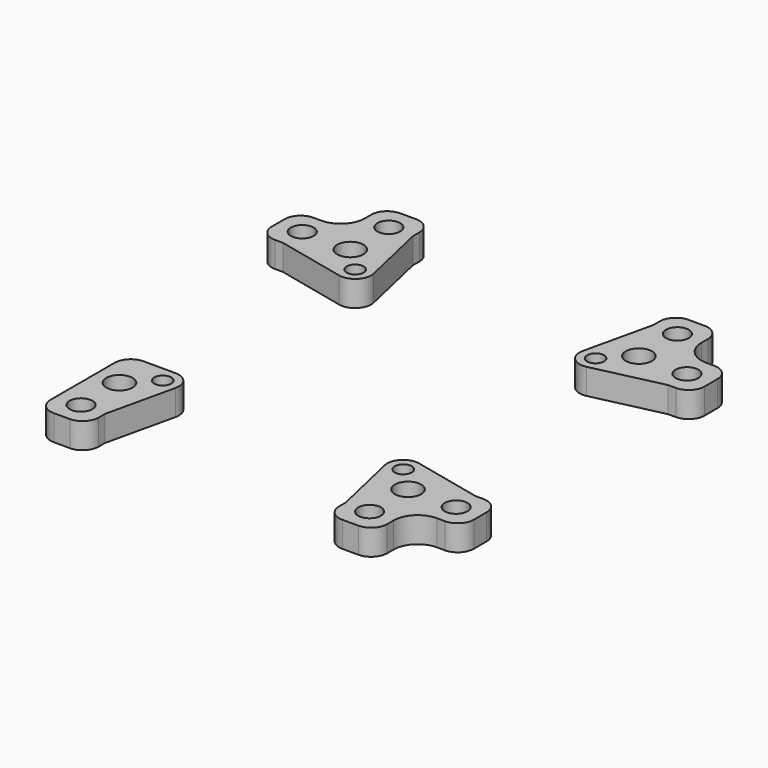
from build123d import *

# Parameters (mm, degrees)
F0_R     = 3.55
F0_R_2   = 2.65
F0_R_3   = 4.1
F1_DEPTH = 8


with BuildPart() as f1:
    # F0 (on Top) → F1 (new body)
    with BuildSketch(Plane.XY):
        with BuildLine():
            Line((-42.5, 67.5), (-47.5, 67.5))
            ThreePointArc((-47.5, 67.5), (-51.035534, 66.035534), (-52.5, 62.5))
            Line((-52.5, 62.5), (-52.5, 60))
            ThreePointArc((-52.5, 60), (-54.696699, 54.696699), (-60, 52.5))
            Line((-60, 52.5), (-62.5, 52.5))
            ThreePointArc((-62.5, 52.5), (-66.035534, 51.035534), (-67.5, 47.5))
            Line((-67.5, 47.5), (-67.5, 42.5))
            ThreePointArc((-67.5, 42.5), (-66.035534, 38.964466), (-62.5, 37.5))
            Line((-62.5, 37.5), (-60, 37.5))
            Line((-60, 37.5), (-38.611111, 32.62502))
            ThreePointArc((-38.611111, 32.62502), (-33.964466, 33.964466), (-32.62502, 38.611111))
            Line((-32.62502, 38.611111), (-37.5, 60))
            Line((-37.5, 60), (-37.5, 62.5))
            ThreePointArc((-37.5, 62.5), (-38.964466, 66.035534), (-42.5, 67.5))
        make_face()
        with Locations((-60, 45)):
            Circle(F0_R, mode=Mode.SUBTRACT)
        with Locations((-37.5, 37.5)):
            Circle(F0_R_2, mode=Mode.SUBTRACT)
        with Locations((-45, 45)):
            Circle(F0_R_3, mode=Mode.SUBTRACT)
        with Locations((-45, 60)):
            Circle(F0_R, mode=Mode.SUBTRACT)
        with BuildLine():
            Line((37.5, 62.5), (37.5, 60))
            Line((37.5, 60), (32.62502, 38.611111))
            ThreePointArc((32.62502, 38.611111), (33.964466, 33.964466), (38.611111, 32.62502))
            Line((38.611111, 32.62502), (60, 37.5))
            Line((60, 37.5), (62.5, 37.5))
            ThreePointArc((62.5, 37.5), (66.035534, 38.964466), (67.5, 42.5))
            Line((67.5, 42.5), (67.5, 47.5))
            ThreePointArc((67.5, 47.5), (66.035534, 51.035534), (62.5, 52.5))
            Line((62.5, 52.5), (60, 52.5))
            ThreePointArc((60, 52.5), (54.696699, 54.696699), (52.5, 60))
            Line((52.5, 60), (52.5, 62.5))
            ThreePointArc((52.5, 62.5), (51.035534, 66.035534), (47.5, 67.5))
            Line((47.5, 67.5), (42.5, 67.5))
            ThreePointArc((42.5, 67.5), (38.964466, 66.035534), (37.5, 62.5))
        make_face()
        with Locations((37.5, 37.5)):
            Circle(F0_R_2, mode=Mode.SUBTRACT)
        with Locations((45, 45)):
            Circle(F0_R_3, mode=Mode.SUBTRACT)
        with Locations((60, 45)):
            Circle(F0_R, mode=Mode.SUBTRACT)
        with Locations((45, 60)):
            Circle(F0_R, mode=Mode.SUBTRACT)
        with BuildLine():
            Line((-52.5, -37.5), (-52.5, -52.5))
            Line((-52.5, -52.5), (-52.5, -62.5))
            ThreePointArc((-52.5, -62.5), (-51.035534, -66.035534), (-47.5, -67.5))
            Line((-47.5, -67.5), (-42.5, -67.5))
            ThreePointArc((-42.5, -67.5), (-38.964466, -66.035534), (-37.5, -62.5))
            Line((-37.5, -62.5), (-37.5, -60))
            Line((-37.5, -60), (-32.62502, -38.611111))
            ThreePointArc((-32.62502, -38.611111), (-33.59132, -34.381952), (-37.5, -32.5))
            Line((-37.5, -32.5), (-47.5, -32.5))
            ThreePointArc((-47.5, -32.5), (-51.035534, -33.964466), (-52.5, -37.5))
        make_face()
        with Locations((-45, -60)):
            Circle(F0_R, mode=Mode.SUBTRACT)
        with Locations((-45, -45)):
            Circle(F0_R_3, mode=Mode.SUBTRACT)
        with Locations((-37.5, -37.5)):
            Circle(F0_R_2, mode=Mode.SUBTRACT)
        with BuildLine():
            Line((32.62502, -38.611111), (37.5, -60))
            Line((37.5, -60), (37.5, -62.5))
            ThreePointArc((37.5, -62.5), (38.964466, -66.035534), (42.5, -67.5))
            Line((42.5, -67.5), (47.5, -67.5))
            ThreePointArc((47.5, -67.5), (51.035534, -66.035534), (52.5, -62.5))
            Line((52.5, -62.5), (52.5, -60))
            ThreePointArc((52.5, -60), (54.696699, -54.696699), (60, -52.5))
            Line((60, -52.5), (62.5, -52.5))
            ThreePointArc((62.5, -52.5), (66.035534, -51.035534), (67.5, -47.5))
            Line((67.5, -47.5), (67.5, -42.5))
            ThreePointArc((67.5, -42.5), (66.035534, -38.964466), (62.5, -37.5))
            Line((62.5, -37.5), (60, -37.5))
            Line((60, -37.5), (38.611111, -32.62502))
            ThreePointArc((38.611111, -32.62502), (33.964466, -33.964466), (32.62502, -38.611111))
        make_face()
        with Locations((45, -60)):
            Circle(F0_R, mode=Mode.SUBTRACT)
        with Locations((45, -45)):
            Circle(F0_R_3, mode=Mode.SUBTRACT)
        with Locations((37.5, -37.5)):
            Circle(F0_R_2, mode=Mode.SUBTRACT)
        with Locations((60, -45)):
            Circle(F0_R, mode=Mode.SUBTRACT)
    extrude(amount=F1_DEPTH)


solid = f1.part
